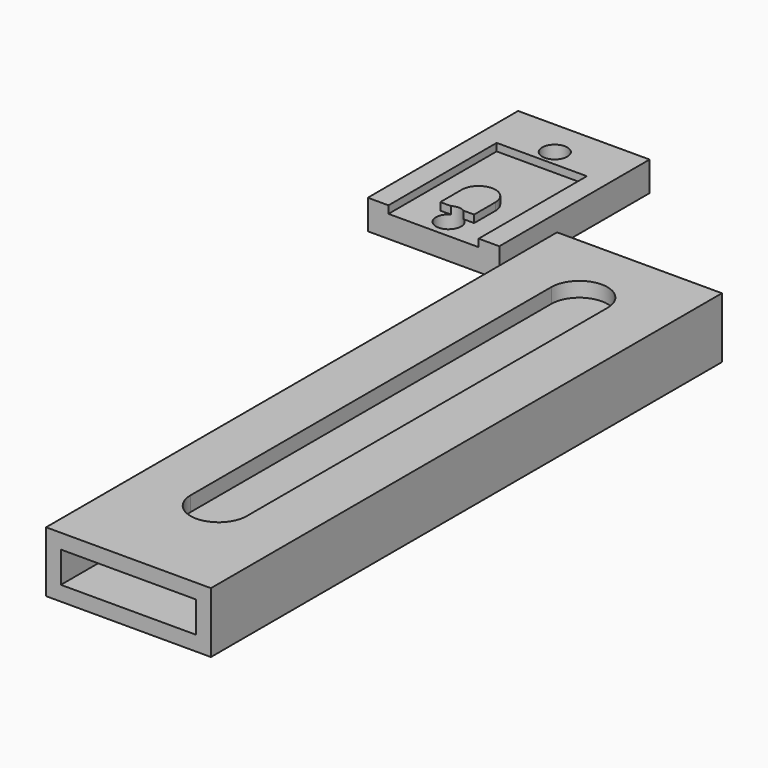
from build123d import *

# Parameters (mm, degrees)
F0_W      = 8.89
F0_H      = 12.7
F1_DEPTH  = 2
F2_W      = 6.096
F2_H      = 9.144
F3_DEPTH  = 0.508
F5_DEPTH  = 0.508
F6_R      = 0.85
F7_DEPTH  = 25.4
F8_W      = 5.08
F8_H      = 2
F9_DEPTH  = 0.508
F10_W     = 11.144
F10_H     = 4.1
F10_W_2   = 9.144
F10_H_2   = 2.1
F11_DEPTH = 43.18
F13_DEPTH = 2.54
F15_DEPTH = 25.4


with BuildPart() as f1:
    # F0 (on Top) → F1 (new body)
    with BuildSketch(Plane.XY):
        with Locations((4.731853, 6.35)):
            Rectangle(F0_W, F0_H)
    extrude(amount=F1_DEPTH)

    # F2 (on face) → F3 (cut)
    with BuildSketch(Plane.XY.offset(2)):
        with Locations((4.731853, 4.572)):
            Rectangle(F2_W, F2_H)
    extrude(amount=-F3_DEPTH, mode=Mode.SUBTRACT)

    # F4 (on face) → F5 (join)
    with BuildSketch(Plane.XY.offset(1.492)):
        with BuildLine():
            ThreePointArc((5.874853, 3.81), (4.731853, 4.953), (3.588853, 3.81))
            Line((3.588853, 3.81), (3.588853, 1.27))
            ThreePointArc((3.588853, 1.27), (4.731853, 0.127), (5.874853, 1.27))
            Line((5.874853, 1.27), (5.874853, 3.81))
        make_face()
    extrude(amount=F5_DEPTH)

    # F6 (on face) → F7 (cut)
    with BuildSketch(Plane.XY.offset(2)):
        with Locations((4.731853, 1.27)):
            Circle(F6_R)
        with Locations((4.731853, 10.244)):
            Circle(F6_R)
    extrude(amount=-F7_DEPTH, mode=Mode.SUBTRACT)

    # F8 (on face) → F9 (cut)
    with BuildSketch(Plane.XY.offset(2)):
        with Locations((4.731853, 1)):
            Rectangle(F8_W, F8_H)
    extrude(amount=-F9_DEPTH, mode=Mode.SUBTRACT)


with BuildPart() as f11:
    # F10 (on Front) → F11 (new body)
    with BuildSketch(Plane.XZ):
        with Locations((18.654404, 2.05)):
            Rectangle(F10_W, F10_H)
        with Locations((18.654404, 2.05)):
            Rectangle(F10_W_2, F10_H_2, mode=Mode.SUBTRACT)
    extrude(amount=F11_DEPTH)

    # F12 (on face) → F13 (cut)
    with BuildSketch(Plane.XY.offset(4.1)):
        with BuildLine():
            ThreePointArc((20.554404, -5.08), (18.654404, -3.18), (16.754404, -5.08))
            Line((16.754404, -5.08), (16.754404, -35.56))
            ThreePointArc((16.754404, -35.56), (18.654404, -37.46), (20.554404, -35.56))
            Line((20.554404, -35.56), (20.554404, -5.08))
        make_face()
    extrude(amount=-F13_DEPTH, mode=Mode.SUBTRACT)

    # F14 (on face) → F15 (cut)
    with BuildSketch(Plane.XY.offset(4.1)):
        with BuildLine():
            ThreePointArc((19.654404, -5.08), (18.654404, -4.08), (17.654404, -5.08))
            Line((17.654404, -5.08), (17.654404, -35.56))
            ThreePointArc((17.654404, -35.56), (18.654404, -36.56), (19.654404, -35.56))
            Line((19.654404, -35.56), (19.654404, -5.08))
        make_face()
    extrude(amount=-F15_DEPTH, mode=Mode.SUBTRACT)


solid = Compound([f1.part, f11.part])
